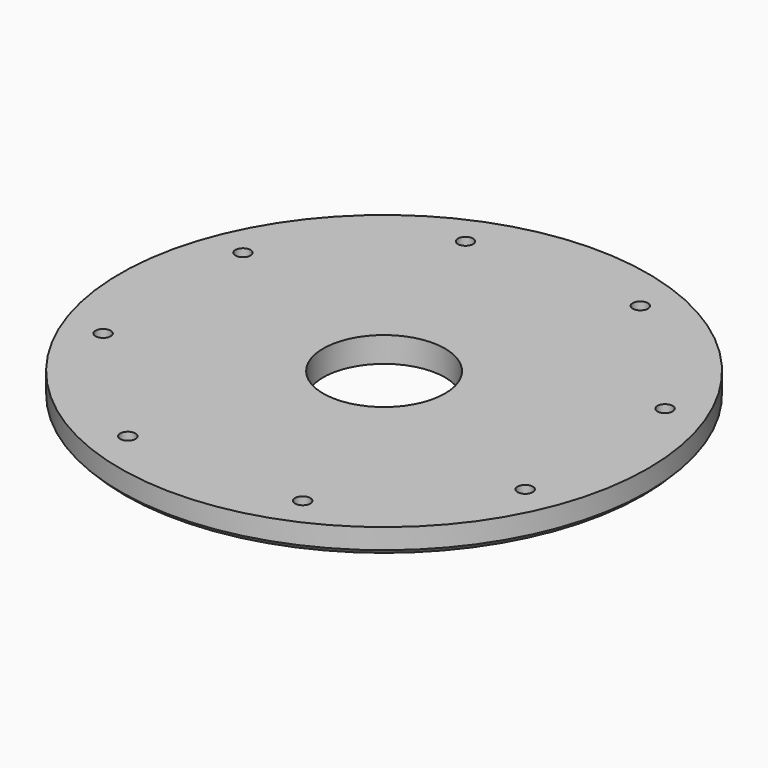
from build123d import *

# Parameters (mm, degrees)
CYLINDER297_R               = 3
CYLINDER297_DEPTH           = 3
CYLINDER297_PLACEMENT_ANGLE = 45
CYLINDER296_R               = 3
CYLINDER296_DEPTH           = 3
CYLINDER293_R               = 3
CYLINDER293_DEPTH           = 3
CYLINDER293_PLACEMENT_ANGLE = 135
CYLINDER298_R               = 3
CYLINDER298_DEPTH           = 3
CYLINDER292_R               = 3
CYLINDER292_DEPTH           = 3
CYLINDER292_PLACEMENT_ANGLE = 225
CYLINDER295_R               = 3
CYLINDER295_DEPTH           = 3
CYLINDER299_R               = 3
CYLINDER299_DEPTH           = 3
CYLINDER299_PLACEMENT_ANGLE = 45
CYLINDER294_R               = 3
CYLINDER294_DEPTH           = 3
COMPOUND237_PLACEMENT_ANGLE = 22.5
CYLINDER288_R               = 1.5
CYLINDER288_DEPTH           = 20
CYLINDER288_PLACEMENT_ANGLE = 45
CYLINDER284_R               = 1.5
CYLINDER284_DEPTH           = 20
CYLINDER285_R               = 1.5
CYLINDER285_DEPTH           = 20
CYLINDER285_PLACEMENT_ANGLE = 135
CYLINDER291_R               = 1.5
CYLINDER291_DEPTH           = 20
CYLINDER289_R               = 1.5
CYLINDER289_DEPTH           = 20
CYLINDER289_PLACEMENT_ANGLE = 225
CYLINDER287_R               = 1.5
CYLINDER287_DEPTH           = 20
CYLINDER290_R               = 1.5
CYLINDER290_DEPTH           = 20
CYLINDER290_PLACEMENT_ANGLE = 45
CYLINDER286_R               = 1.5
CYLINDER286_DEPTH           = 20
COMPOUND236_PLACEMENT_ANGLE = 22.5
CYLINDER280_R               = 1.5
CYLINDER280_DEPTH           = 16
CYLINDER280_PLACEMENT_ANGLE = 67.5
CYLINDER282_R               = 1.5
CYLINDER282_DEPTH           = 16
CYLINDER282_PLACEMENT_ANGLE = 22.5
CYLINDER283_R               = 1.5
CYLINDER283_DEPTH           = 16
CYLINDER283_PLACEMENT_ANGLE = 112.5
CYLINDER281_R               = 1.5
CYLINDER281_DEPTH           = 16
CYLINDER281_PLACEMENT_ANGLE = 202.5
TUBE029_R                   = 52
TUBE029_R_2                 = 12
TUBE029_DEPTH               = 5
CHAMFER003_SIZE             = 1


with BuildPart() as obj1:
    # Cylinder297 → Cylinder297 (new body)
    with BuildSketch(Plane.XY):
        Circle(CYLINDER297_R)
    extrude(amount=CYLINDER297_DEPTH)


with BuildPart() as obj1_1:
    # Cylinder297 placement: moved
    add(obj1.part.moved(Location((-31.819805, 31.819805, -18))).rotate(Axis((-31.819805, 31.819805, -18), (0, 0, 1)), CYLINDER297_PLACEMENT_ANGLE))


with BuildPart() as obj2:
    # Cylinder296 → Cylinder296 (new body)
    with BuildSketch(Plane(origin=(-45, 0, -18), x_dir=(0, 1, 0), z_dir=(0, 0, 1))):
        Circle(CYLINDER296_R)
    extrude(amount=CYLINDER296_DEPTH)


with BuildPart() as obj3:
    # Cylinder293 → Cylinder293 (new body)
    with BuildSketch(Plane.XY):
        Circle(CYLINDER293_R)
    extrude(amount=CYLINDER293_DEPTH)


with BuildPart() as obj3_1:
    # Cylinder293 placement: moved
    add(obj3.part.moved(Location((-31.819805, -31.819805, -18))).rotate(Axis((-31.819805, -31.819805, -18), (0, 0, 1)), CYLINDER293_PLACEMENT_ANGLE))


with BuildPart() as obj4:
    # Cylinder298 → Cylinder298 (new body)
    with BuildSketch(Plane(origin=(0, -45, -18), x_dir=(-1, 0, 0), z_dir=(0, 0, 1))):
        Circle(CYLINDER298_R)
    extrude(amount=CYLINDER298_DEPTH)


with BuildPart() as obj5:
    # Cylinder292 → Cylinder292 (new body)
    with BuildSketch(Plane.XY):
        Circle(CYLINDER292_R)
    extrude(amount=CYLINDER292_DEPTH)


with BuildPart() as obj5_1:
    # Cylinder292 placement: moved
    add(obj5.part.moved(Location((31.819805, -31.819805, -18))).rotate(Axis((31.819805, -31.819805, -18), (0, 0, 1)), CYLINDER292_PLACEMENT_ANGLE))


with BuildPart() as obj6:
    # Cylinder295 → Cylinder295 (new body)
    with BuildSketch(Plane(origin=(45, 0, -18), x_dir=(0, -1, 0), z_dir=(0, 0, 1))):
        Circle(CYLINDER295_R)
    extrude(amount=CYLINDER295_DEPTH)


with BuildPart() as obj7:
    # Cylinder299 → Cylinder299 (new body)
    with BuildSketch(Plane.XY):
        Circle(CYLINDER299_R)
    extrude(amount=CYLINDER299_DEPTH)


with BuildPart() as obj7_1:
    # Cylinder299 placement: moved
    add(obj7.part.moved(Location((31.819805, 31.819805, -18))).rotate(Axis((31.819805, 31.819805, -18), (0, 0, -1)), CYLINDER299_PLACEMENT_ANGLE))


with BuildPart() as compound237:
    # Cylinder294 → Cylinder294 (new body)
    with BuildSketch(Plane(origin=(0, 45, -18), x_dir=(1, 0, 0), z_dir=(0, 0, 1))):
        Circle(CYLINDER294_R)
    extrude(amount=CYLINDER294_DEPTH)

    # Compound237: union obj1, obj2, obj3, obj4, obj5, obj6, obj7
    add(obj1_1.part)
    add(obj2.part)
    add(obj3_1.part)
    add(obj4.part)
    add(obj5_1.part)
    add(obj6.part)
    add(obj7_1.part)


with BuildPart() as compound237_1:
    # Compound237 placement: moved
    add(compound237.part.moved(Location((0, 0, -82))).rotate(Axis((0, 0, -82), (0, 0, 1)), COMPOUND237_PLACEMENT_ANGLE))


with BuildPart() as obj8:
    # Cylinder288 → Cylinder288 (new body)
    with BuildSketch(Plane.XY):
        Circle(CYLINDER288_R)
    extrude(amount=CYLINDER288_DEPTH)


with BuildPart() as obj8_1:
    # Cylinder288 placement: moved
    add(obj8.part.moved(Location((-31.819805, 31.819805, -18))).rotate(Axis((-31.819805, 31.819805, -18), (0, 0, 1)), CYLINDER288_PLACEMENT_ANGLE))


with BuildPart() as obj9:
    # Cylinder284 → Cylinder284 (new body)
    with BuildSketch(Plane(origin=(-45, 0, -18), x_dir=(0, 1, 0), z_dir=(0, 0, 1))):
        Circle(CYLINDER284_R)
    extrude(amount=CYLINDER284_DEPTH)


with BuildPart() as obj10:
    # Cylinder285 → Cylinder285 (new body)
    with BuildSketch(Plane.XY):
        Circle(CYLINDER285_R)
    extrude(amount=CYLINDER285_DEPTH)


with BuildPart() as obj10_1:
    # Cylinder285 placement: moved
    add(obj10.part.moved(Location((-31.819805, -31.819805, -18))).rotate(Axis((-31.819805, -31.819805, -18), (0, 0, 1)), CYLINDER285_PLACEMENT_ANGLE))


with BuildPart() as obj11:
    # Cylinder291 → Cylinder291 (new body)
    with BuildSketch(Plane(origin=(0, -45, -18), x_dir=(-1, 0, 0), z_dir=(0, 0, 1))):
        Circle(CYLINDER291_R)
    extrude(amount=CYLINDER291_DEPTH)


with BuildPart() as obj12:
    # Cylinder289 → Cylinder289 (new body)
    with BuildSketch(Plane.XY):
        Circle(CYLINDER289_R)
    extrude(amount=CYLINDER289_DEPTH)


with BuildPart() as obj12_1:
    # Cylinder289 placement: moved
    add(obj12.part.moved(Location((31.819805, -31.819805, -18))).rotate(Axis((31.819805, -31.819805, -18), (0, 0, 1)), CYLINDER289_PLACEMENT_ANGLE))


with BuildPart() as obj13:
    # Cylinder287 → Cylinder287 (new body)
    with BuildSketch(Plane(origin=(45, 0, -18), x_dir=(0, -1, 0), z_dir=(0, 0, 1))):
        Circle(CYLINDER287_R)
    extrude(amount=CYLINDER287_DEPTH)


with BuildPart() as obj14:
    # Cylinder290 → Cylinder290 (new body)
    with BuildSketch(Plane.XY):
        Circle(CYLINDER290_R)
    extrude(amount=CYLINDER290_DEPTH)


with BuildPart() as obj14_1:
    # Cylinder290 placement: moved
    add(obj14.part.moved(Location((31.819805, 31.819805, -18))).rotate(Axis((31.819805, 31.819805, -18), (0, 0, -1)), CYLINDER290_PLACEMENT_ANGLE))


with BuildPart() as compound236:
    # Cylinder286 → Cylinder286 (new body)
    with BuildSketch(Plane(origin=(0, 45, -18), x_dir=(1, 0, 0), z_dir=(0, 0, 1))):
        Circle(CYLINDER286_R)
    extrude(amount=CYLINDER286_DEPTH)

    # Compound236: union obj8, obj9, obj10, obj11, obj12, obj13, obj14
    add(obj8_1.part)
    add(obj9.part)
    add(obj10_1.part)
    add(obj11.part)
    add(obj12_1.part)
    add(obj13.part)
    add(obj14_1.part)


with BuildPart() as compound236_1:
    # Compound236 placement: moved
    add(compound236.part.moved(Location((0, 0, -87))).rotate(Axis((0, 0, -87), (0, 0, 1)), COMPOUND236_PLACEMENT_ANGLE))


with BuildPart() as obj15:
    # Cylinder280 → Cylinder280 (new body)
    with BuildSketch(Plane.XY):
        Circle(CYLINDER280_R)
    extrude(amount=CYLINDER280_DEPTH)


with BuildPart() as obj15_1:
    # Cylinder280 placement: moved
    add(obj15.part.moved(Location((0, 16, 2))).rotate(Axis((0, 16, 2), (0, 0, -1)), CYLINDER280_PLACEMENT_ANGLE))


with BuildPart() as obj16:
    # Cylinder282 → Cylinder282 (new body)
    with BuildSketch(Plane.XY):
        Circle(CYLINDER282_R)
    extrude(amount=CYLINDER282_DEPTH)


with BuildPart() as obj16_1:
    # Cylinder282 placement: moved
    add(obj16.part.moved(Location((-16, 0, 2))).rotate(Axis((-16, 0, 2), (0, 0, 1)), CYLINDER282_PLACEMENT_ANGLE))


with BuildPart() as obj17:
    # Cylinder283 → Cylinder283 (new body)
    with BuildSketch(Plane.XY):
        Circle(CYLINDER283_R)
    extrude(amount=CYLINDER283_DEPTH)


with BuildPart() as obj17_1:
    # Cylinder283 placement: moved
    add(obj17.part.moved(Location((0, -16, 2))).rotate(Axis((0, -16, 2), (0, 0, 1)), CYLINDER283_PLACEMENT_ANGLE))


with BuildPart() as compound235:
    # Cylinder281 → Cylinder281 (new body)
    with BuildSketch(Plane.XY):
        Circle(CYLINDER281_R)
    extrude(amount=CYLINDER281_DEPTH)


with BuildPart() as compound235_1:
    # Cylinder281 placement: moved
    add(compound235.part.moved(Location((16, 0, 2))).rotate(Axis((16, 0, 2), (0, 0, 1)), CYLINDER281_PLACEMENT_ANGLE))

    # Compound235: union obj15, obj16, obj17
    add(obj15_1.part)
    add(obj16_1.part)
    add(obj17_1.part)


with BuildPart() as compound235_2:
    # Compound235 placement: moved
    add(compound235_1.part.moved(Location((0, 0, -117))))


with BuildPart() as chamfer003:
    # Tube029 → Tube029 (new body)
    with BuildSketch(Plane.XY.offset(-100)):
        Circle(TUBE029_R)
        Circle(TUBE029_R_2, mode=Mode.SUBTRACT)
    extrude(amount=TUBE029_DEPTH)

    # Cut125: cut Compound235
    add(compound235_2.part, mode=Mode.SUBTRACT)

    # Cut127: cut Compound236
    add(compound236_1.part, mode=Mode.SUBTRACT)

    # Cut128: cut Compound237
    add(compound237_1.part, mode=Mode.SUBTRACT)

    # Chamfer003
    chamfer003_edges = [chamfer003.edges().sort_by_distance(p)[0] for p in [
        (-52, 0, -100),
    ]]
    chamfer(chamfer003_edges, length=CHAMFER003_SIZE)


solid = chamfer003.part
